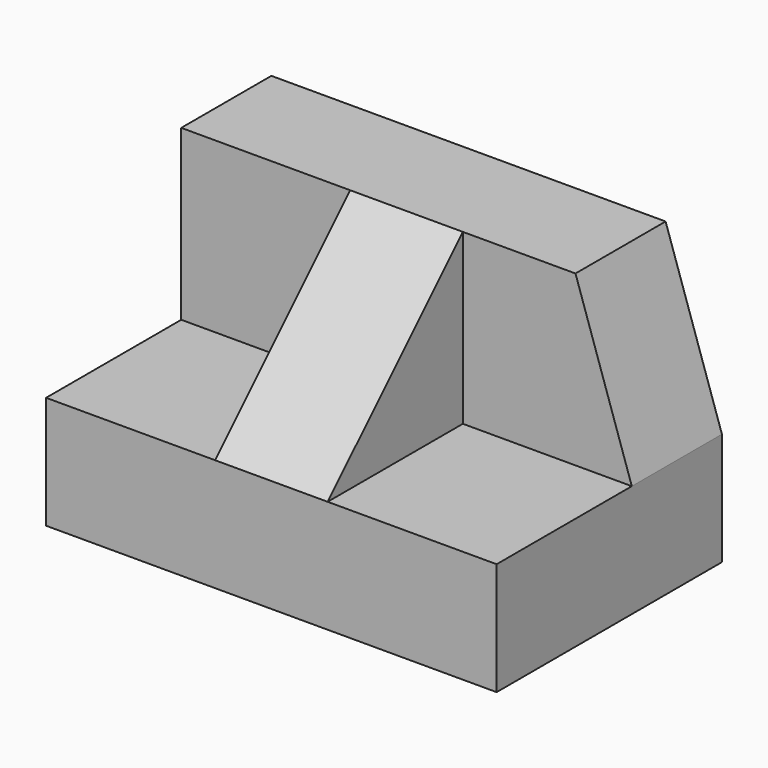
from build123d import *

# Parameters (mm, degrees)
F1_DEPTH = 50.8
F3_DEPTH = 25.4
F4_W     = 12.7
F4_H     = 19.05
F5_DEPTH = 19.05
F7_DEPTH = 25.4


with BuildPart() as f1:
    # F0 (on Right) → F1 (new body)
    with BuildSketch(Plane.YZ):
        Polygon((0, 19.05), (0, 0), (-19.05, 0), (-19.05, -12.7), (12.7, -12.7), (12.7, 19.05), align=None)
    extrude(amount=F1_DEPTH)

    # F2 (on face) → F3 (cut)
    with BuildSketch(Plane.XZ):
        Polygon((50.8, 0), (50.8, 19.05), (44.45, 19.05), align=None)
    extrude(amount=-F3_DEPTH, mode=Mode.SUBTRACT)

    # F4 (on face) → F5 (join)
    with BuildSketch(Plane.XZ):
        with Locations((25.4, 9.525)):
            Rectangle(F4_W, F4_H)
    extrude(amount=F5_DEPTH)

    # F6 (on face) → F7 (cut)
    with BuildSketch(Plane.YZ.offset(31.75)):
        Polygon((-19.05, 19.05), (-19.05, 0), (0, 19.05), align=None)
    extrude(amount=-F7_DEPTH, mode=Mode.SUBTRACT)


solid = f1.part
